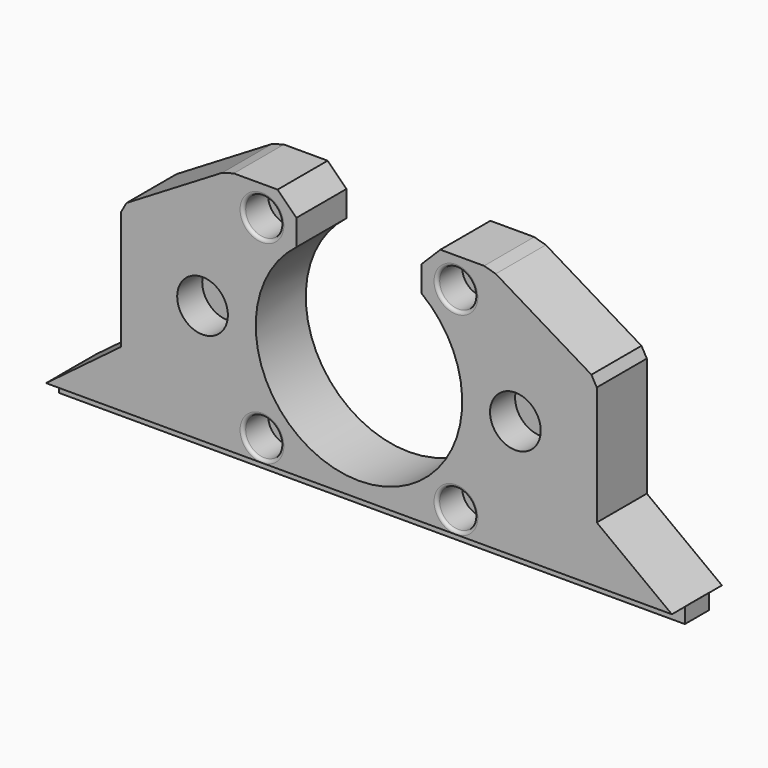
from build123d import *

# Parameters (mm, degrees)
SKETCH012_R             = 1.7
PAD001_DEPTH            = 10
SKETCH021_W             = 2.45
SKETCH021_H             = 4.8
PAD002_DEPTH            = 100
SKETCH020_R             = 4.05
SKETCH020_R_2           = 3
POCKET014_DEPTH         = 5
SKETCH013_R             = 1.7
POCKET016_DEPTH         = 22
POCKET015_DEPTH         = 3
FILLET_R                = 0.5
CHAMFER_SIZE            = 1
BODY001_ROLL_ANGLE      = 90
BODY001_PLACEMENT_ANGLE = 180


with BuildPart() as part:
    # Sketch012 → Pad001 (new body)
    with BuildSketch(Plane.XY):
        with BuildLine():
            Line((29, 48.75), (12, 38.5))
            Line((12, 38.5), (12, 18.5))
            Line((12, 18.5), (0, 9.49))
            Line((0, 9.49), (100, 9.49))
            Line((88, 18.5), (100, 9.49))
            Line((88, 18.5), (88, 38.5))
            Line((88, 38.5), (71, 48.75))
            Line((63, 48.75), (71, 48.75))
            Line((63, 48.75), (60, 45.75))
            Line((60, 45.75), (60, 41.624405))
            ThreePointArc((40, 41.624405), (50, 12), (60, 41.624405))
            Line((40, 45.75), (40, 41.624405))
            Line((37, 48.75), (40, 45.75))
            Line((29, 48.75), (37, 48.75))
        make_face()
        with Locations((34.5, 44)):
            Circle(SKETCH012_R, mode=Mode.SUBTRACT)
        with Locations((34.5, 13)):
            Circle(SKETCH012_R, mode=Mode.SUBTRACT)
        with Locations((65.5, 44)):
            Circle(SKETCH012_R, mode=Mode.SUBTRACT)
        with Locations((65.5, 13)):
            Circle(SKETCH012_R, mode=Mode.SUBTRACT)
    extrude(amount=PAD001_DEPTH)

    # Sketch021 → Pad002 (join)
    with BuildSketch(Plane.YZ):
        with Locations((8.275, 5)):
            Rectangle(SKETCH021_W, SKETCH021_H)
    extrude(amount=PAD002_DEPTH)

    # Sketch020 → Pocket014 (cut)
    with BuildSketch(Plane.XY):
        with Locations((25, 28.5)):
            Circle(SKETCH020_R)
        with Locations((75, 28.5)):
            Circle(SKETCH020_R)
        with Locations((34.5, 44)):
            Circle(SKETCH020_R_2)
        with Locations((65.5, 44)):
            Circle(SKETCH020_R_2)
        with Locations((65.5, 13)):
            Circle(SKETCH020_R_2)
        with Locations((34.5, 13)):
            Circle(SKETCH020_R_2)
    extrude(amount=POCKET014_DEPTH, mode=Mode.SUBTRACT)

    # Sketch013 → Pocket016 (cut)
    with BuildSketch(Plane.XZ):
        with Locations((22, 5)):
            Circle(SKETCH013_R)
        with Locations((78, 5)):
            Circle(SKETCH013_R)
    extrude(amount=-POCKET016_DEPTH, mode=Mode.SUBTRACT)

    # Sketch014 → Pocket015 (cut)
    with BuildSketch(Plane.XZ.offset(-13)):
        Polygon((25.031089, 3.25), (25.031089, 6.75), (25.031089, 10.75), (18.968911, 10.75), (18.968911, 6.75), (18.968911, 3.25), (22, 1.5), align=None)
        Polygon((81.031089, 3.25), (81.031089, 6.75), (81.031089, 10.75), (74.968911, 10.75), (74.968911, 6.75), (74.968911, 3.25), (78, 1.5), align=None)
    extrude(amount=-POCKET015_DEPTH, mode=Mode.SUBTRACT)

    # Fillet
    fillet_edges = [part.edges().sort_by_distance(p)[0] for p in [
        (62.5, 13, 0),
        (62.5, 44, 0),
        (31.5, 44, 0),
        (31.5, 13, 0),
    ]]
    fillet(fillet_edges, radius=FILLET_R)

    # Chamfer
    chamfer_edges = [part.edges().sort_by_distance(p)[0] for p in [
        (88, 38.5, 5),
        (71, 48.75, 5),
        (29, 48.75, 5),
        (12, 38.5, 5),
    ]]
    chamfer(chamfer_edges, length=CHAMFER_SIZE)


with BuildPart() as part_1:
    # Body001 roll: moved
    add(part.part.rotate(Axis((0, 0, 0), (1, 0, 0)), BODY001_ROLL_ANGLE))


with BuildPart() as part_2:
    # Body001 placement: moved
    add(part_1.part.moved(Location((240, 54, 0))).rotate(Axis((240, 54, 0), (0, 0, 1)), BODY001_PLACEMENT_ANGLE))


solid = part_2.part
